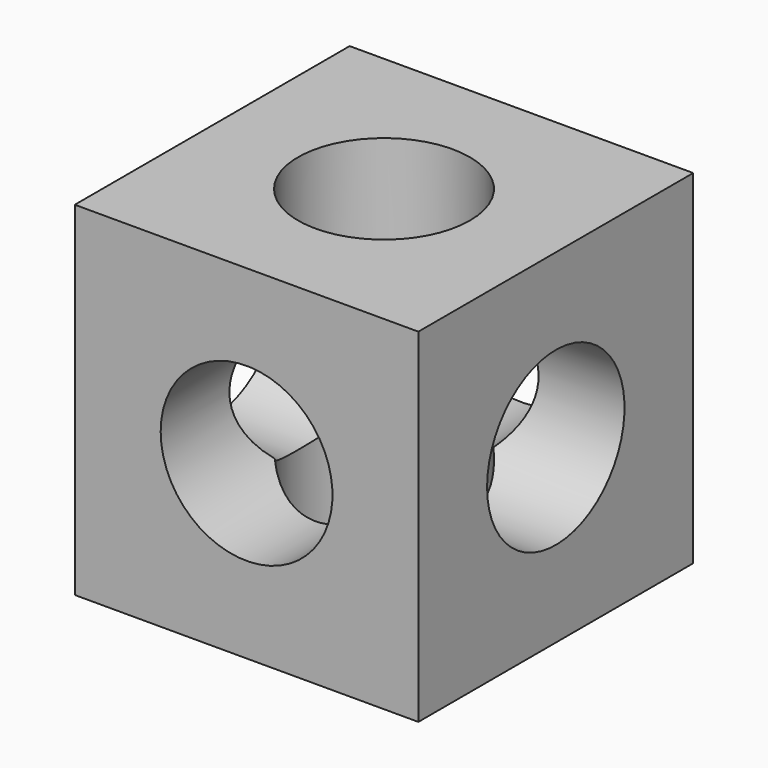
from build123d import *

# Parameters (mm, degrees)
F0_W     = 50
F0_H     = 50
F1_DEPTH = 50
F2_R     = 12.5
F3_DEPTH = 50
F4_R     = 12.5
F5_DEPTH = 50
F6_R     = 12.5
F7_DEPTH = 50


with BuildPart() as f1:
    # F0 (on Top) → F1 (new body)
    with BuildSketch(Plane.XY):
        Rectangle(F0_W, F0_H)
    extrude(amount=F1_DEPTH)

    # F2 (on face) → F3 (cut)
    with BuildSketch(Plane.XY.offset(50)):
        Circle(F2_R)
    extrude(amount=-F3_DEPTH, mode=Mode.SUBTRACT)

    # F4 (on face) → F5 (cut)
    with BuildSketch(Plane(origin=(-25, 0, 0), x_dir=(0, -1, 0), z_dir=(-1, 0, 0))):
        with Locations((0, 25)):
            Circle(F4_R)
    extrude(amount=-F5_DEPTH, mode=Mode.SUBTRACT)

    # F6 (on face) → F7 (cut)
    with BuildSketch(Plane(origin=(0, 25, 0), x_dir=(-1, 0, 0), z_dir=(0, 1, 0))):
        with Locations((0, 25)):
            Circle(F6_R)
    extrude(amount=-F7_DEPTH, mode=Mode.SUBTRACT)


solid = f1.part
